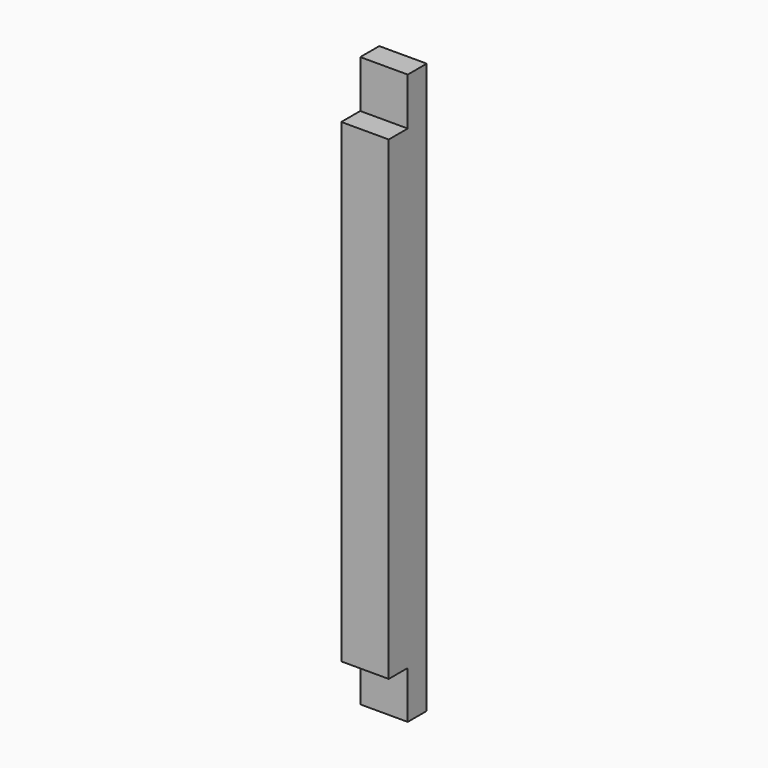
from build123d import *

# Parameters (mm, degrees)
F0_W     = 38.1
F0_H     = 38.1
F1_DEPTH = 457.2
F2_W     = 38.1
F2_H     = 38.1
F3_DEPTH = 19.05


with BuildPart() as f1:
    # F0 (on Top) → F1 (new body)
    with BuildSketch(Plane.XY):
        with Locations((-55.078926, 28.682465)):
            Rectangle(F0_W, F0_H)
    extrude(amount=F1_DEPTH)

    # F2 (on face) → F3 (cut)
    with BuildSketch(Plane.XZ.offset(-9.632465)):
        with Locations((-55.078926, 19.05)):
            Rectangle(F2_W, F2_H)
        with Locations((-55.078926, 438.15)):
            Rectangle(F2_W, F2_H)
    extrude(amount=-F3_DEPTH, mode=Mode.SUBTRACT)


solid = f1.part
